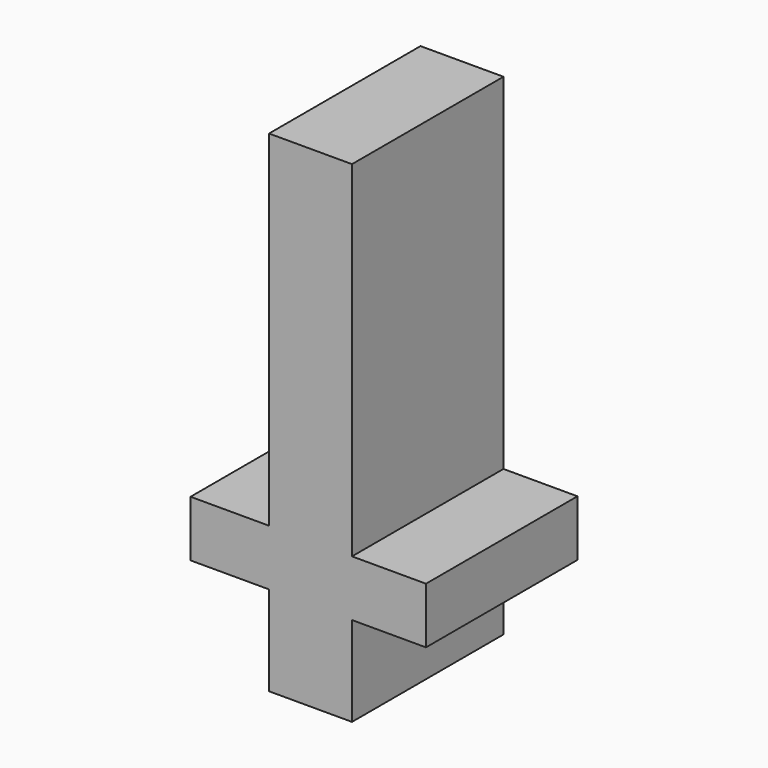
from build123d import *

# Parameters (mm, degrees)
F0_W     = 11.1292107031
F0_H     = 46.3215801865
F0_W_2   = 9.9260536954
F0_H_2   = 7.519736886
F0_W_3   = 10.5276331306
F0_H_3   = 12.0315812528
F1_DEPTH = 25.4


with BuildPart() as f1:
    # F0 (on Front) → F1 (new body)
    with BuildSketch(Plane.XZ):
        with Locations((-4.657e-07, 0.7519731298)):
            Rectangle(F0_W, F0_H)
        with Locations((10.5276317336, -26.1686854064)):
            Rectangle(F0_W_2, F0_H_2)
        with Locations((-4.657e-07, -26.1686854064)):
            Rectangle(F0_W, F0_H_2)
        with Locations((-10.8284223825, -26.1686854064)):
            Rectangle(F0_W_3, F0_H_2)
        with Locations((-4.657e-07, -35.9443444759)):
            Rectangle(F0_W, F0_H_3)
    extrude(amount=F1_DEPTH)


solid = f1.part
